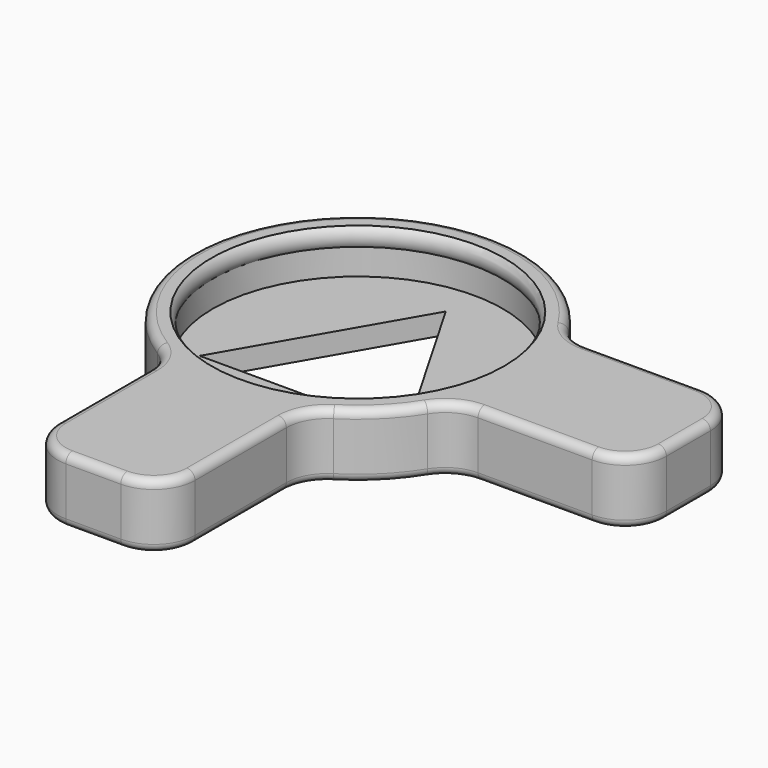
from build123d import *

# Parameters (mm, degrees)
F3_DEPTH = 5.9869614104
F4_R     = 3.81
F5_R     = 0.762
F7_DEPTH = 25.4


with BuildPart() as f1:
    # F0 (on Front) → F1 (revolve)
    with BuildSketch(Plane.XZ):
        with BuildLine():
            Line((15.3035, 0), (15.3035, 4.1730385896))
            ThreePointArc((15.3035, 4.1730385896), (14.3181376493, 3.8136610654), (13.3985, 4.318))
            Line((13.3985, 4.318), (13.3985, 1.905))
            Line((13.3985, 1.905), (0, 1.905))
            Line((0, 1.905), (0, 0))
            Line((0, 0), (15.3035, 0))
        make_face()
        with BuildLine():
            ThreePointArc((13.3985, 4.318), (14.3181376493, 3.8136610654), (15.3035, 4.1730385896))
            Line((15.3035, 4.1730385896), (15.3035, 5.9869614104))
            Line((15.3035, 5.9869614104), (13.5255, 5.9869614104))
            ThreePointArc((13.5255, 5.9869614104), (13.1481610654, 5.1763623507), (13.3985, 4.318))
        make_face()
    revolve(axis=Axis((0, 0, 4.2298094004), (0, 0, -1)))

    # F2 (on face) → F3 (join, through all)
    with BuildSketch(Plane.XY.offset(5.9869614104)):
        with BuildLine():
            Line((30.5435, -6.35), (30.5435, 6.35))
            Line((30.5435, 6.35), (13.9238863917, 6.35))
            ThreePointArc((13.9238863917, 6.35), (15.3035, 0), (13.9238863917, -6.35))
            Line((13.9238863917, -6.35), (30.5435, -6.35))
        make_face()
        with BuildLine():
            Line((-6.35, -30.5435), (6.35, -30.5435))
            Line((6.35, -30.5435), (6.35, -13.9238863917))
            ThreePointArc((6.35, -13.9238863917), (0, -15.3035), (-6.35, -13.9238863917))
            Line((-6.35, -13.9238863917), (-6.35, -30.5435))
        make_face()
    extrude(amount=-F3_DEPTH)

    # F4
    f4_edges = [f1.edges().sort_by_distance(p)[0] for p in [
        (-6.35, -30.5435, 2.993481),
        (-6.35, -13.923886, 2.993481),
        (6.35, -30.5435, 2.993481),
        (6.35, -13.923886, 2.993481),
        (13.923886, -6.35, 2.993481),
        (30.5435, -6.35, 2.993481),
        (30.5435, 6.35, 2.993481),
        (13.923886, 6.35, 2.993481),
    ]]
    fillet(f4_edges, radius=F4_R)

    # F5
    f5_edges = [f1.edges().sort_by_distance(p)[0] for p in [
        (0, -30.5435, 5.986961),
        (0, -30.5435, 0),
    ]]
    fillet(f5_edges, radius=F5_R)

    # F6 (on face) → F7 (cut)
    with BuildSketch(Plane.XY.offset(1.905)):
        Polygon((0, 10.16), (-9.5320529443, -6.35), (9.5320529443, -6.35), align=None)
    extrude(amount=-F7_DEPTH, mode=Mode.SUBTRACT)


solid = f1.part
